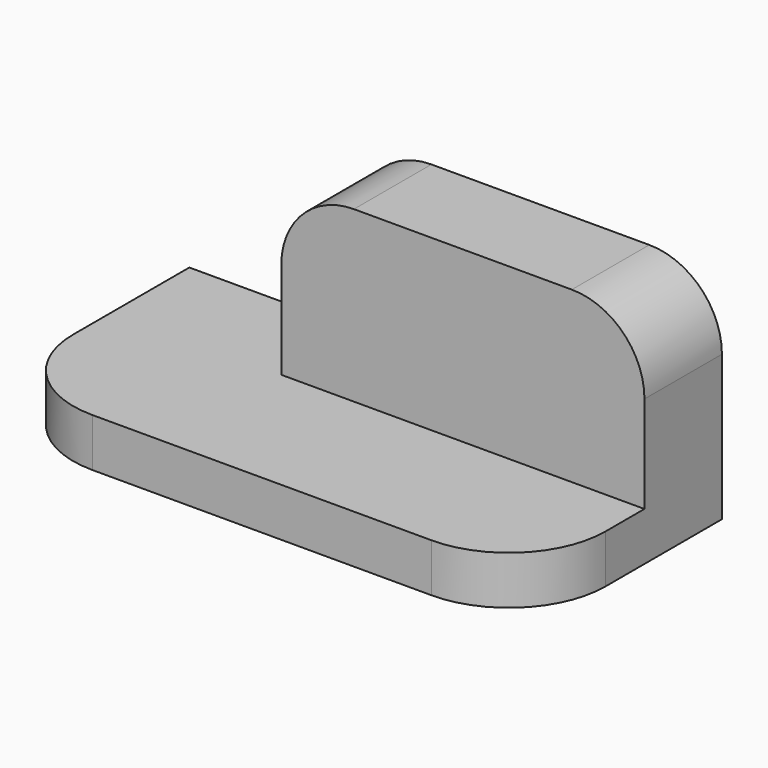
from build123d import *

# Parameters (mm, degrees)
F0_W     = 110
F0_H     = 50
F1_DEPTH = 10
F2_R     = 20
F3_W     = 75
F3_H     = 20
F4_DEPTH = 35
F5_R     = 15


with BuildPart() as f1:
    # F0 (on Top) → F1 (new body)
    with BuildSketch(Plane.XY):
        with Locations((55, -25)):
            Rectangle(F0_W, F0_H)
    extrude(amount=F1_DEPTH)

    # F2
    f2_edges = [f1.edges().sort_by_distance(p)[0] for p in [
        (0, -50, 5),
        (110, -50, 5),
    ]]
    fillet(f2_edges, radius=F2_R)

    # F3 (on face) → F4 (join)
    with BuildSketch(Plane.XY.offset(10)):
        with Locations((72.5, -10)):
            Rectangle(F3_W, F3_H)
    extrude(amount=F4_DEPTH)

    # F5
    f5_edges = [f1.edges().sort_by_distance(p)[0] for p in [
        (35, -10, 45),
        (110, -10, 45),
    ]]
    fillet(f5_edges, radius=F5_R)


solid = f1.part
